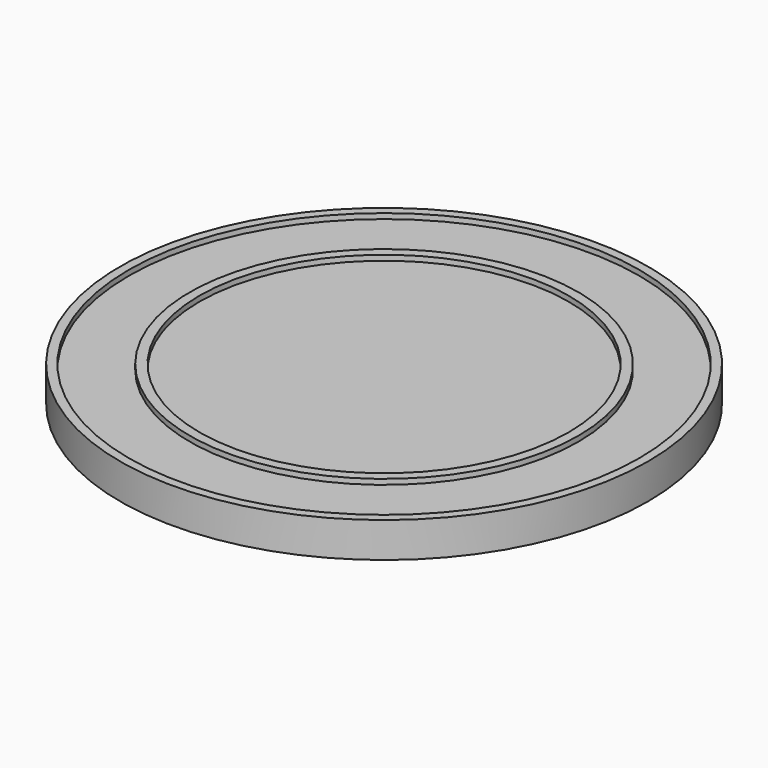
from build123d import *

# Parameters (mm, degrees)
SKETCH_R        = 150
PAD_DEPTH       = 20
SKETCH001_R     = 145
SKETCH001_R_2   = 110.45
POCKET_DEPTH    = 3
SKETCH002_R     = 105
POCKET001_DEPTH = 3


with BuildPart() as part:
    # Sketch → Pad (new body)
    with BuildSketch(Plane.XY):
        Circle(SKETCH_R)
    extrude(amount=-PAD_DEPTH)

    # Sketch001 → Pocket (cut)
    with BuildSketch(Plane.XY):
        Circle(SKETCH001_R)
        Circle(SKETCH001_R_2, mode=Mode.SUBTRACT)
    extrude(amount=-POCKET_DEPTH, mode=Mode.SUBTRACT)

    # Sketch002 → Pocket001 (cut)
    with BuildSketch(Plane.XY):
        Circle(SKETCH002_R)
    extrude(amount=-POCKET001_DEPTH, mode=Mode.SUBTRACT)


solid = part.part
